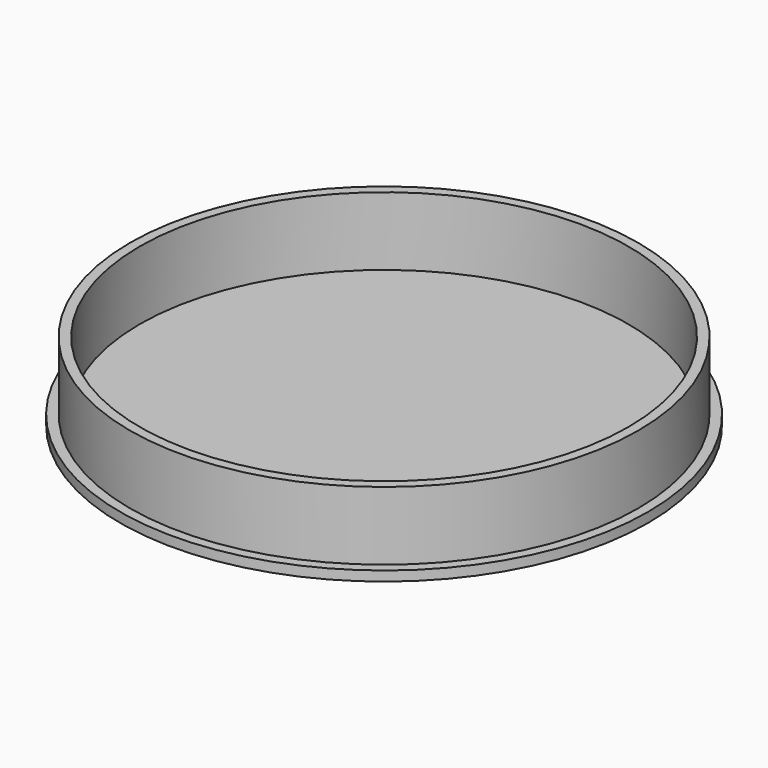
from build123d import *

# Parameters (mm, degrees)
F0_R     = 27
F0_R_2   = 26
F0_R_3   = 25
F1_DEPTH = 1
F2_DEPTH = 8


with BuildPart() as f1:
    # F0 (on Top) → F1 (new body)
    with BuildSketch(Plane.XY):
        Circle(F0_R)
        Circle(F0_R_2, mode=Mode.SUBTRACT)
        Circle(F0_R_2)
        Circle(F0_R_3, mode=Mode.SUBTRACT)
        Circle(F0_R_3)
    extrude(amount=F1_DEPTH)

    # F0 (on Top) → F2 (join)
    with BuildSketch(Plane.XY):
        Circle(F0_R_2)
        Circle(F0_R_3, mode=Mode.SUBTRACT)
    extrude(amount=F2_DEPTH)


solid = f1.part
